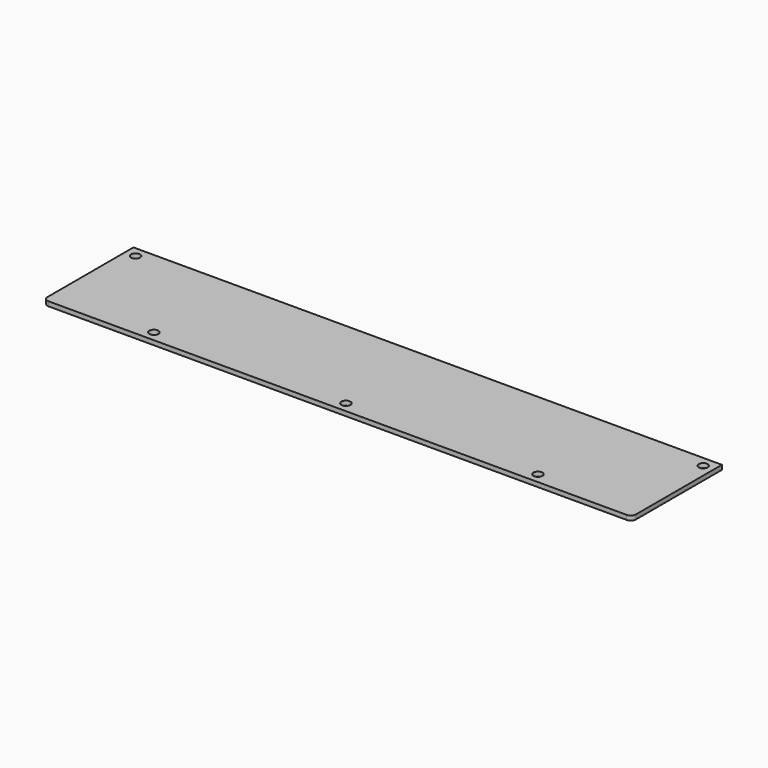
from build123d import *

# Parameters (mm, degrees)
F0_W     = 224.778265
F0_H     = 43.005985
F0_R     = 1.7272
F1_DEPTH = 1.70942
F2_R     = 1.98374


with BuildPart() as f1:
    # F0 (on Top) → F1 (new body)
    with BuildSketch(Plane.XY):
        with Locations((112.389132, -21.502992)):
            Rectangle(F0_W, F0_H)
        with Locations((39.037235, -39.037235)):
            Circle(F0_R, mode=Mode.SUBTRACT)
        with Locations((112.389133, -39.037235)):
            Circle(F0_R, mode=Mode.SUBTRACT)
        with Locations((185.741031, -39.037235)):
            Circle(F0_R, mode=Mode.SUBTRACT)
        with Locations((3.96875, -3.96875)):
            Circle(F0_R, mode=Mode.SUBTRACT)
        with Locations((220.809515, -3.96875)):
            Circle(F0_R, mode=Mode.SUBTRACT)
    extrude(amount=F1_DEPTH)

    # F2
    f2_edges = [f1.edges().sort_by_distance(p)[0] for p in [
        (0, -43.005985, 0.85471),
        (224.778265, -43.005985, 0.85471),
    ]]
    fillet(f2_edges, radius=F2_R)


solid = f1.part
